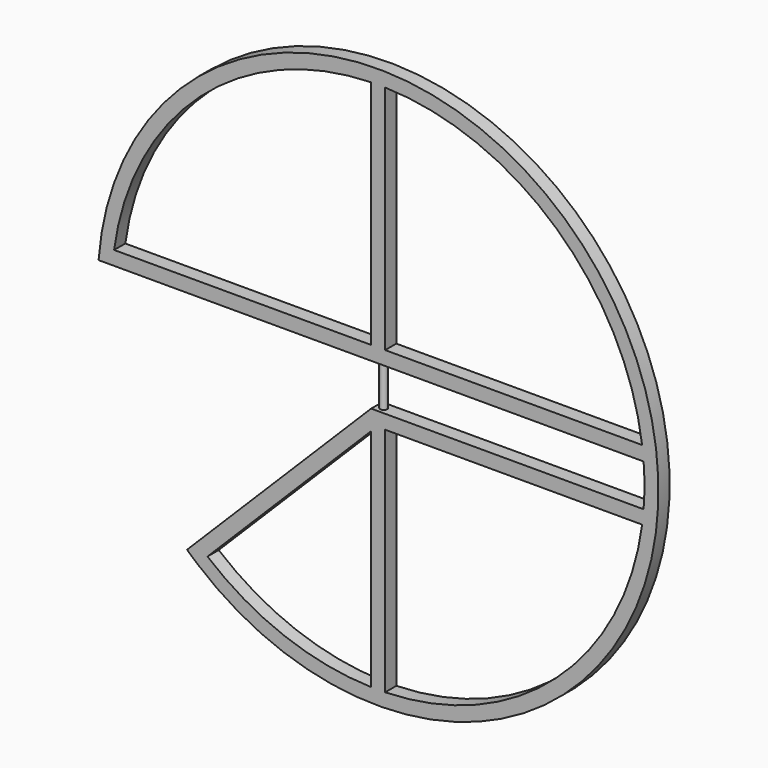
from build123d import *

# Parameters (mm, degrees)
F1_DEPTH = 25.4
F2_R     = 6.35
F3_DEPTH = 76.2


with BuildPart() as f1:
    # F0 (on Front) → F1 (new body)
    with BuildSketch(Plane.XZ):
        with BuildLine():
            Line((-12.7, -38.1), (-346.285668, -371.685668))
            ThreePointArc((-346.285668, -371.685668), (-336.867918, -380.242036), (-327.238821, -388.559846))
            ThreePointArc((-327.238821, -388.559846), (468.314664, 196.83845), (-506.569235, 38.1))
            Line((-506.569235, 38.1), (-12.7, 38.1))
            Line((-12.7, 38.1), (481.093702, 38.1))
            ThreePointArc((481.093702, 38.1), (482.6, 0), (481.093702, -38.1))
            Line((481.093702, -38.1), (-12.7, -38.1))
        make_face()
        with BuildLine():
            Line((-309.209041, -370.530065), (-12.7, -74.021024))
            Line((-12.7, -74.021024), (-12.7, -482.432866))
            ThreePointArc((-12.7, -482.432866), (-170.402221, -451.515053), (-309.209041, -370.530065))
        make_face(mode=Mode.SUBTRACT)
        with BuildLine():
            ThreePointArc((478.404128, -63.5), (322.756879, -358.790687), (12.7, -482.432866))
            Line((12.7, -482.432866), (12.7, -63.5))
            Line((12.7, -63.5), (478.404128, -63.5))
        make_face(mode=Mode.SUBTRACT)
        with BuildLine():
            ThreePointArc((-478.404128, 63.5), (-322.756879, 358.790687), (-12.7, 482.432866))
            Line((-12.7, 482.432866), (-12.7, 63.5))
            Line((-12.7, 63.5), (-478.404128, 63.5))
        make_face(mode=Mode.SUBTRACT)
        with BuildLine():
            Line((12.7, 63.5), (12.7, 482.432866))
            ThreePointArc((12.7, 482.432866), (322.756879, 358.790687), (478.404128, 63.5))
            Line((478.404128, 63.5), (12.7, 63.5))
        make_face(mode=Mode.SUBTRACT)
    extrude(amount=F1_DEPTH)

    # F2 (on face) → F3 (join, through all)
    with BuildSketch(Plane.XY.offset(-38.1)):
        with Locations((0, -12.7)):
            Circle(F2_R)
    extrude(amount=F3_DEPTH)


solid = f1.part
